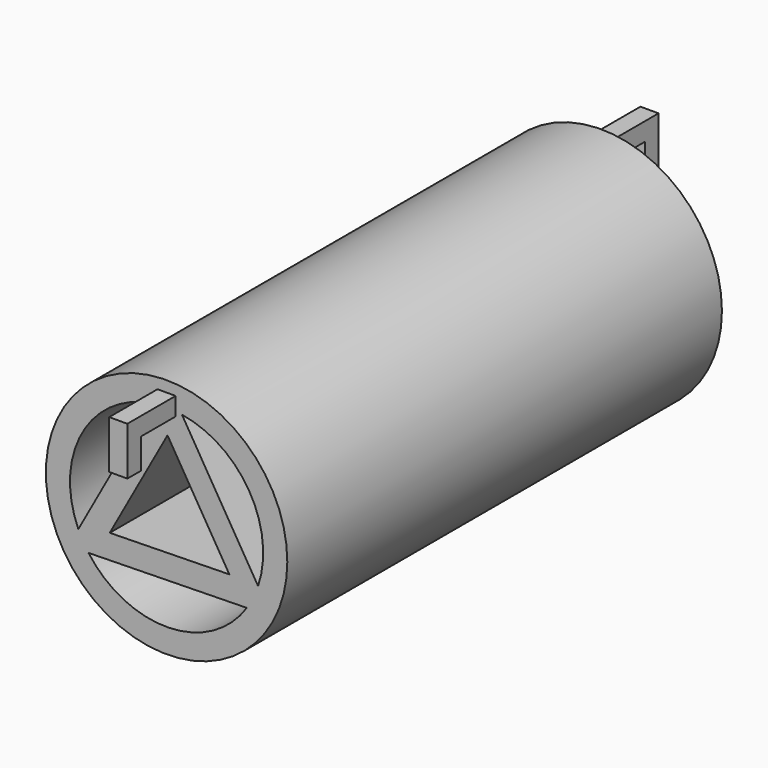
from build123d import *

# Parameters (mm, degrees)
F0_R     = 25.4
F1_DEPTH = 114.3
F2_W     = 3.81
F2_H     = 3.81
F3_DEPTH = 12.7
F4_W     = 3.81
F4_H     = 3.81
F5_DEPTH = 12.7
F6_W     = 3.81
F6_H     = 3.556
F7_DEPTH = 6.35
F8_W     = 3.81
F8_H     = 3.556
F9_DEPTH = 6.35


with BuildPart() as f1:
    # F0 (on Front) → F1 (new body)
    with BuildSketch(Plane.XZ):
        Circle(F0_R)
        with BuildLine():
            ThreePointArc((16.884709, -11.305264), (0.394939, -20.316162), (-16.432577, -11.952941))
            Line((-16.432577, -11.952941), (16.884709, -11.305264))
        make_face(mode=Mode.SUBTRACT)
        with BuildLine():
            ThreePointArc((-18.567839, -8.254559), (-17.791782, 9.816053), (-2.919006, 20.109247))
            Line((-2.919006, 20.109247), (-18.567839, -8.254559))
        make_face(mode=Mode.SUBTRACT)
        Polygon((0.19747, 15.241919), (13.196979, -6.295993), (-11.955155, -6.784942), align=None, mode=Mode.SUBTRACT)
        with BuildLine():
            ThreePointArc((3.221185, 20.06306), (17.396842, 10.500108), (19.252822, -6.498558))
            Line((19.252822, -6.498558), (3.221185, 20.06306))
        make_face(mode=Mode.SUBTRACT)
    extrude(amount=F1_DEPTH)

    # F2 (on face) → F3 (join)
    with BuildSketch(Plane(origin=(0, 0, 0), x_dir=(-1, 0, 0), z_dir=(0, 1, 0))):
        with Locations((0, 21.892242)):
            Rectangle(F2_W, F2_H)
    extrude(amount=F3_DEPTH)

    # F4 (on face) → F5 (join)
    with BuildSketch(Plane.XZ.offset(114.3)):
        with Locations((0, 21.180816)):
            Rectangle(F4_W, F4_H)
    extrude(amount=F5_DEPTH)

    # F6 (on face) → F7 (join)
    with BuildSketch(Plane(origin=(0, 0, 19.987242), x_dir=(1, 0, 0), z_dir=(0, 0, -1))):
        with Locations((0, -10.922)):
            Rectangle(F6_W, F6_H)
    extrude(amount=F7_DEPTH)

    # F8 (on face) → F9 (join)
    with BuildSketch(Plane(origin=(0, 0, 19.275816), x_dir=(1, 0, 0), z_dir=(0, 0, -1))):
        with Locations((0, 125.222)):
            Rectangle(F8_W, F8_H)
    extrude(amount=F9_DEPTH)


solid = f1.part
